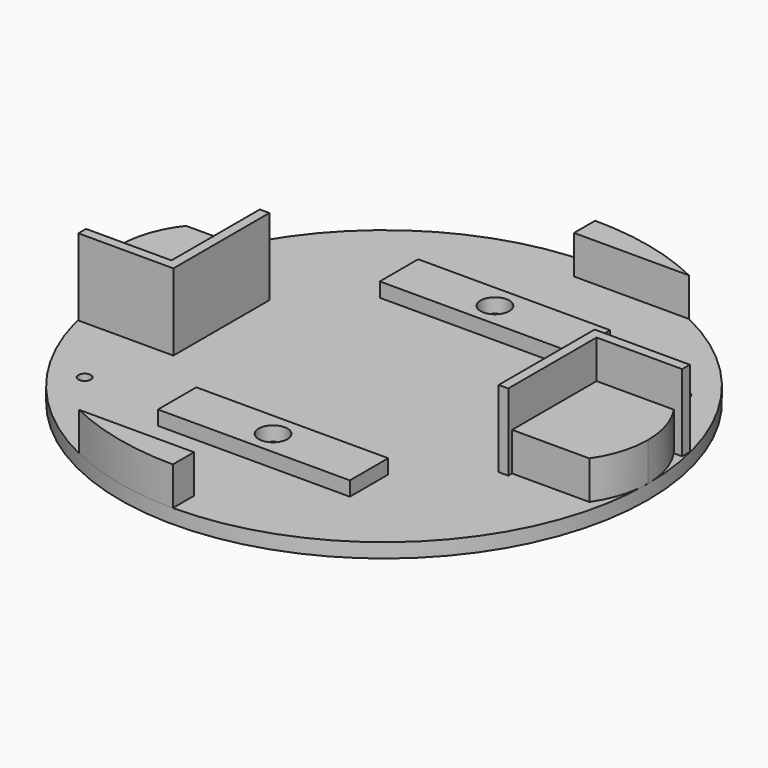
from build123d import *

# Parameters (mm, degrees)
SKETCH_R        = 55
PAD_DEPTH       = 3
PAD001_DEPTH    = 16
PAD002_DEPTH    = 8
SKETCH003_R     = 1.3
POCKET_DEPTH    = 5
SKETCH004_W     = 40
SKETCH004_H     = 10
SKETCH004_R     = 1.6
PAD003_DEPTH    = 6
SKETCH005_R     = 3
POCKET001_DEPTH = 3
SKETCH006_R     = 1.6
POCKET002_DEPTH = 6
PAD004_DEPTH    = 8


with BuildPart() as part:
    # Sketch → Pad (new body)
    with BuildSketch(Plane.XY):
        Circle(SKETCH_R)
    extrude(amount=PAD_DEPTH)

    # Sketch001 (on Face3 of Pad) → Pad001 (join)
    with BuildSketch(Plane.XY.offset(3)):
        Polygon((33.500008, 0), (33.500008, 13), (53.345406, 13), (53.345406, 11), (35.5, 11), (35.5, -0.005684), (35.5, -12), (33.500008, -12), align=None)
        Polygon((-33.5, 0), (-33.5, -13), (-53.293575, -13), (-53.293575, -11), (-35.5, -11), (-35.5, 0.001212), (-35.5, 12), (-33.5, 12), align=None)
    extrude(amount=PAD001_DEPTH)

    # Sketch002 (on Face3 of Pad001) → Pad002 (join)
    with BuildSketch(Plane.XY.offset(3)):
        with BuildLine():
            ThreePointArc((-23.973944, -49.5), (-12.298374, -53.607369), (0, -55))
            Line((0, -49.5), (0, -55))
            Line((-23.973944, -49.5), (0, -49.5))
        make_face()
        with BuildLine():
            ThreePointArc((23.973944, 49.5), (12.298374, 53.607369), (0, 55))
            Line((0, 49.5), (0, 55))
            Line((23.973944, 49.5), (0, 49.5))
        make_face()
    extrude(amount=PAD002_DEPTH)

    # Sketch003 (on Face3 of Pad002) → Pocket (cut)
    with BuildSketch(Plane.XY.offset(3)):
        with Locations((-40, -28)):
            Circle(SKETCH003_R)
        with Locations((40, 28)):
            Circle(SKETCH003_R)
    extrude(amount=-POCKET_DEPTH, mode=Mode.SUBTRACT)

    # Sketch004 (on Face2 of Pocket) → Pad003 (join)
    with BuildSketch(Plane(origin=(0, 0, 0), x_dir=(1, 0, 0), z_dir=(0, 0, -1))):
        with Locations((0, -28.9)):
            Rectangle(SKETCH004_W, SKETCH004_H)
        with Locations((0, -28.9)):
            Circle(SKETCH004_R, mode=Mode.SUBTRACT)
        with Locations((0, 28.9)):
            Rectangle(SKETCH004_W, SKETCH004_H)
        with Locations((0, 28.9)):
            Circle(SKETCH004_R, mode=Mode.SUBTRACT)
    extrude(amount=-PAD003_DEPTH)

    # Sketch005 (on Face42 of Pad003) → Pocket001 (cut)
    with BuildSketch(Plane.XY.offset(6)):
        with Locations((0, 28.9)):
            Circle(SKETCH005_R)
        with Locations((0, -28.9)):
            Circle(SKETCH005_R)
    extrude(amount=-POCKET001_DEPTH, mode=Mode.SUBTRACT)

    # Sketch006 (on Face42 of Pocket001) → Pocket002 (cut)
    with BuildSketch(Plane.XY.offset(6)):
        with Locations((0, 28.9)):
            Circle(SKETCH006_R)
        with Locations((0, -28.9)):
            Circle(SKETCH006_R)
    extrude(amount=-POCKET002_DEPTH, mode=Mode.SUBTRACT)

    # Sketch007 (on Face3 of Pocket002) → Pad004 (join)
    with BuildSketch(Plane.XY.offset(3)):
        with BuildLine():
            Line((-35.5, 0), (-35.5, 12))
            Line((-35.5, 12), (-50.870426, 12))
            ThreePointArc((-50.870426, 12), (-53.938727, 6.34534), (-55, 0))
            ThreePointArc((-55, 0), (-54.130945, -5.756552), (-51.601242, -11))
            Line((-35.5, -11), (-51.601242, -11))
            Line((-35.5, 0), (-35.5, -11))
        make_face()
    pad004 = extrude(amount=PAD004_DEPTH)

    # Mirrored: Pad004 across Sketch007 V_Axis
    add(pad004.mirror(Plane(origin=(0, 0, 3), x_dir=(0, 0, 1), z_dir=(1, 0, 0))))


solid = part.part
